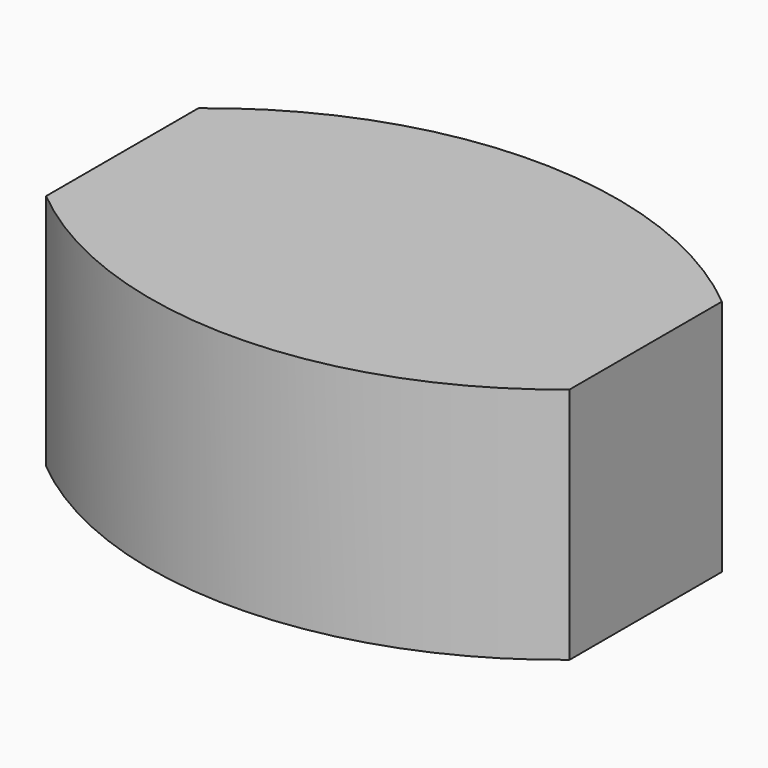
from build123d import *

# Parameters (mm, degrees)
F0_W     = 55
F0_H     = 40
F1_DEPTH = 25
F3_DEPTH = 25


with BuildPart() as f1:
    # F0 (on Top) → F1 (new body)
    with BuildSketch(Plane.XY):
        with Locations((27.5, -20)):
            Rectangle(F0_W, F0_H)
    extrude(amount=F1_DEPTH)

    # F2 (on face) → F3 (cut)
    with BuildSketch(Plane.XY.offset(25)):
        with BuildLine():
            Line((55, 0), (0, 0))
            Line((0, 0), (0, -10))
            ThreePointArc((0, -10), (27.5, -0.072717), (55, -10))
            Line((55, -10), (55, 0))
        make_face()
        with BuildLine():
            ThreePointArc((55, -30), (27.5, -39.927283), (0, -30))
            Line((0, -30), (0, -40))
            Line((0, -40), (55, -40))
            Line((55, -40), (55, -30))
        make_face()
    extrude(amount=-F3_DEPTH, mode=Mode.SUBTRACT)


solid = f1.part
